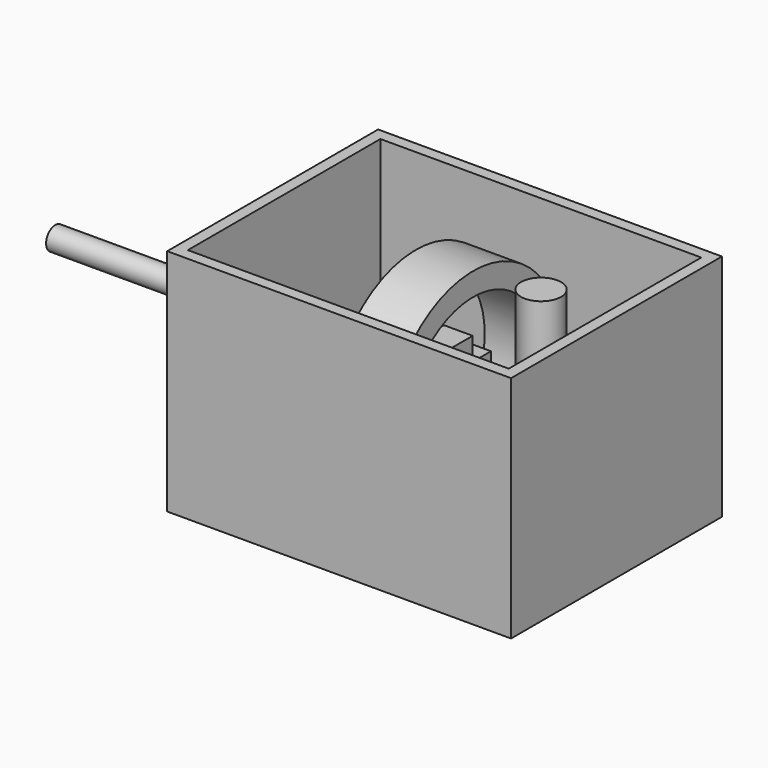
from build123d import *

# Parameters (mm, degrees)
F0_W      = 76.2
F0_H      = 50.8
F1_DEPTH  = 29.21
F2_T      = -2.54
F3_R      = 2.54
F4_DEPTH  = 38.101
F5_W      = 63.5
F5_H      = 2.54
F7_W      = 7.62
F7_H      = 5.08
F7_H_2    = 7.62
F7_W_2    = 5.08
F8_DEPTH  = 3.175
F9_R      = 24.13
F9_R_2    = 19.05
F10_DEPTH = 6.35
F11_R     = 4.445
F12_DEPTH = 41.656
F13_R     = 4.445
F14_DEPTH = 25.4


with BuildPart() as f1:
    # F0 (on Front) → F1 (new body, symmetric)
    with BuildSketch(Plane.XZ):
        Rectangle(F0_W, F0_H)
    extrude(amount=F1_DEPTH, both=True)

    # F2
    f2_openings = [f1.faces().sort_by_distance(p)[0] for p in [
        (0, 0, 25.4),
    ]]
    offset(amount=F2_T, openings=f2_openings)

    # F3 (on Right) → F4 (cut, through all)
    with BuildSketch(Plane.YZ):
        Circle(F3_R)
    extrude(amount=-F4_DEPTH, mode=Mode.SUBTRACT)

    # F11 (on Top) → F12 (cut)
    with BuildSketch(Plane.XY):
        with Locations((21.3442667981, 0)):
            Circle(F11_R)
    extrude(amount=-F12_DEPTH, mode=Mode.SUBTRACT)


with BuildPart() as f6:
    # F5 (on Front) → F6 (revolve)
    with BuildSketch(Plane.XZ):
        with Locations((-54.5376882462, 1.6943329167)):
            Rectangle(F5_W, F5_H)
    revolve(axis=Axis((-61.0382007435, 0, 0.4243329167), (1, 0, 0)))


with BuildPart() as f8:
    # F7 (on Right) → F8 (new body, symmetric)
    with BuildSketch(Plane.YZ):
        with Locations((0, 6.35)):
            Rectangle(F7_W, F7_H)
        Rectangle(F7_W, F7_H_2)
        with Locations((-6.35, 0)):
            Rectangle(F7_W_2, F7_H_2)
        with Locations((6.35, 0)):
            Rectangle(F7_W_2, F7_H_2)
        with Locations((0, -6.35)):
            Rectangle(F7_W, F7_H)
    extrude(amount=F8_DEPTH, both=True)


with BuildPart() as f10:
    # F9 (on Right) → F10 (new body, symmetric)
    with BuildSketch(Plane.YZ):
        Circle(F9_R)
        Circle(F9_R_2, mode=Mode.SUBTRACT)
    extrude(amount=F10_DEPTH, both=True)


with BuildPart() as f14:
    # F13 (on Top) → F14 (new body)
    with BuildSketch(Plane.XY):
        with Locations((21.3801246136, 0)):
            Circle(F13_R)
    extrude(amount=F14_DEPTH)


solid = Compound([f1.part, f6.part, f8.part, f10.part, f14.part])
